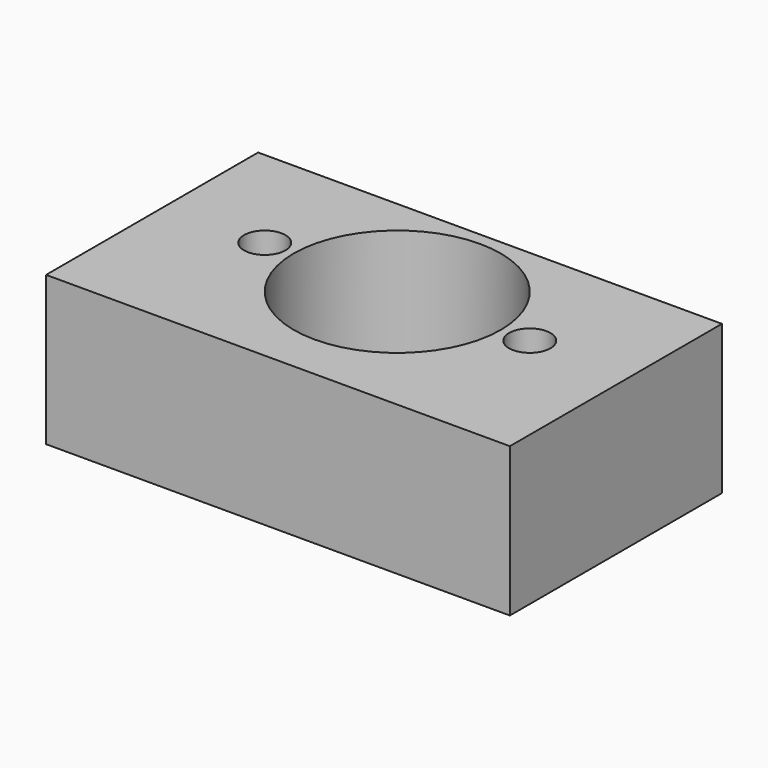
from build123d import *

# Parameters (mm, degrees)
F0_W     = 56
F0_H     = 32
F0_R     = 2.5
F0_R_2   = 12.5
F1_DEPTH = 18
F3_DEPTH = 10


with BuildPart() as f1:
    # F0 (on Top) → F1 (new body)
    with BuildSketch(Plane.XY):
        with Locations((0.009827, -16)):
            Rectangle(F0_W, F0_H)
        with Locations((-15.990173, -14)):
            Circle(F0_R, mode=Mode.SUBTRACT)
        with Locations((0.009827, -14)):
            Circle(F0_R_2, mode=Mode.SUBTRACT)
        with Locations((16.009827, -14)):
            Circle(F0_R, mode=Mode.SUBTRACT)
    extrude(amount=F1_DEPTH)

    # F2 (on face) → F3 (cut)
    with BuildSketch(Plane(origin=(0, 0, 0), x_dir=(-1, 0, 0), z_dir=(0, 1, 0))):
        with BuildLine():
            ThreePointArc((18.490173, 9), (20.990173, 6.5), (23.490173, 9))
            Line((23.490173, 9), (18.490173, 9))
        make_face()
        with BuildLine():
            Line((18.490173, 9), (23.490173, 9))
            ThreePointArc((23.490173, 9), (20.990173, 11.5), (18.490173, 9))
        make_face()
        with BuildLine():
            ThreePointArc((-23.509827, 9), (-21.009827, 6.5), (-18.509827, 9))
            Line((-18.509827, 9), (-23.509827, 9))
        make_face()
        with BuildLine():
            Line((-23.509827, 9), (-18.509827, 9))
            ThreePointArc((-18.509827, 9), (-21.009827, 11.5), (-23.509827, 9))
        make_face()
    extrude(amount=-F3_DEPTH, mode=Mode.SUBTRACT)


solid = f1.part
